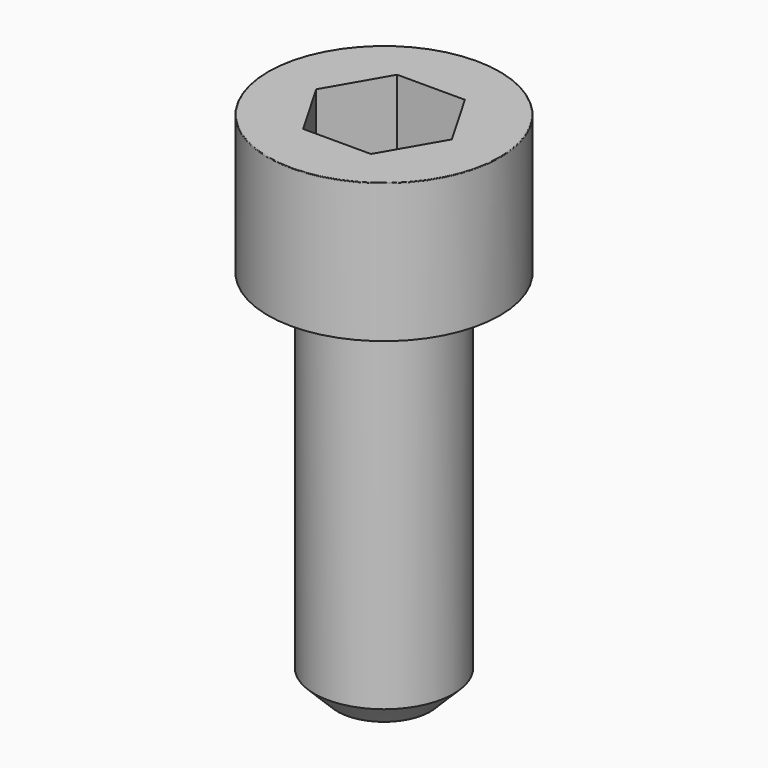
from build123d import *

# Parameters (mm, degrees)
POCKET_DEPTH = 5.06


with BuildPart() as part:
    # Sketch → Revolve (revolve)
    with BuildSketch(Plane.YZ):
        with BuildLine():
            Line((2.999, 0), (5, 0))
            Line((5, 0), (5, 5.97229))
            ThreePointArc((5, 5.97229), (4.991884, 5.991884), (4.97229, 6))
            Line((4.97229, 6), (0, 6))
            Line((0, -16), (0, 6))
            Line((2, -16), (0, -16))
            Line((3, -15), (2, -16))
            Line((3, -0.2), (3, -15))
            Line((2.999, 0), (3, -0.2))
        make_face()
    revolve(axis=Axis((0, 0, 0), (0, 0, 1)))

    # Sketch001 → Pocket (cut)
    with BuildSketch(Plane.XY.offset(6)):
        Polygon((2.921392, 0), (1.460696, 2.53), (-1.460696, 2.53), (-2.921392, 0), (-1.460696, -2.53), (1.460696, -2.53), align=None)
    extrude(amount=-POCKET_DEPTH, mode=Mode.SUBTRACT)


solid = part.part
